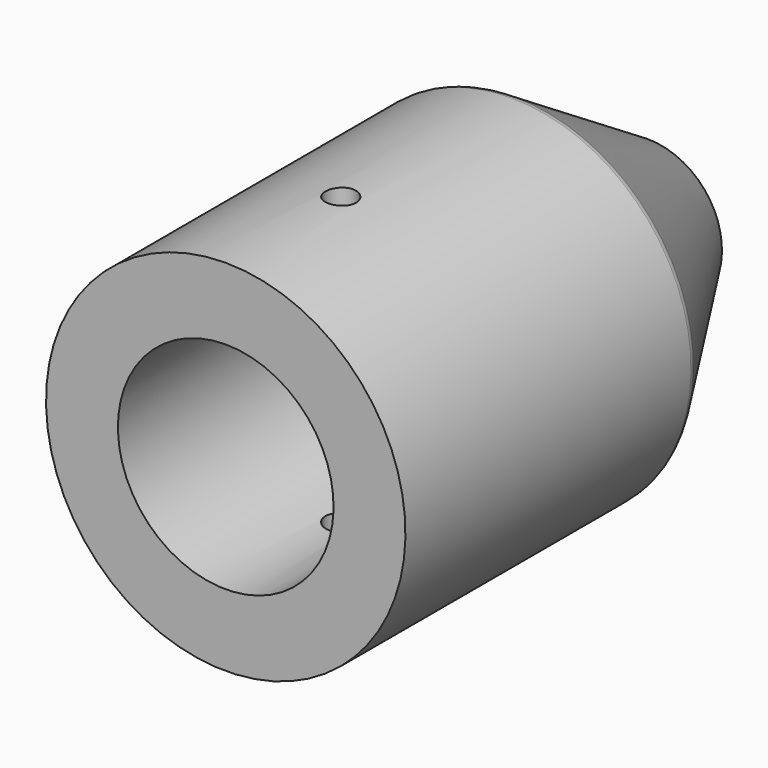
from build123d import *

# Parameters (mm, degrees)
F3_D = 3.7973
F6_D = 2.7051
F7_R = 0.762


with BuildPart() as f1:
    # F0 (on Right) → F1 (revolve)
    with BuildSketch(Plane.YZ):
        Polygon((0, 15.875), (-31.75, 15.875), (-31.75, 9.525), (-6.35, 9.525), (-6.35, 0), (15.1730990037, 0), (15.1730990037, 6.35), align=None)
    revolve(axis=Axis((0, 4.4115495019, 0), (0, 1, 0)))

    # F3 (through all)
    with Locations(Plane(origin=(0, 15.1730990037, 0), x_dir=(-1, 0, 0), z_dir=(0, 1, 0))):
        with Locations((0, 0)):
            Hole(F3_D / 2)

    # F6 (through all)
    with Locations(Plane.XY.offset(17.018)):
        with Locations((0, -19.05)):
            Hole(F6_D / 2)

    # F7
    f7_edges = [f1.edges().sort_by_distance(p)[0] for p in [
        (0, 15.173099, -6.35),
        (0, 0, -15.875),
    ]]
    fillet(f7_edges, radius=F7_R)


solid = f1.part
